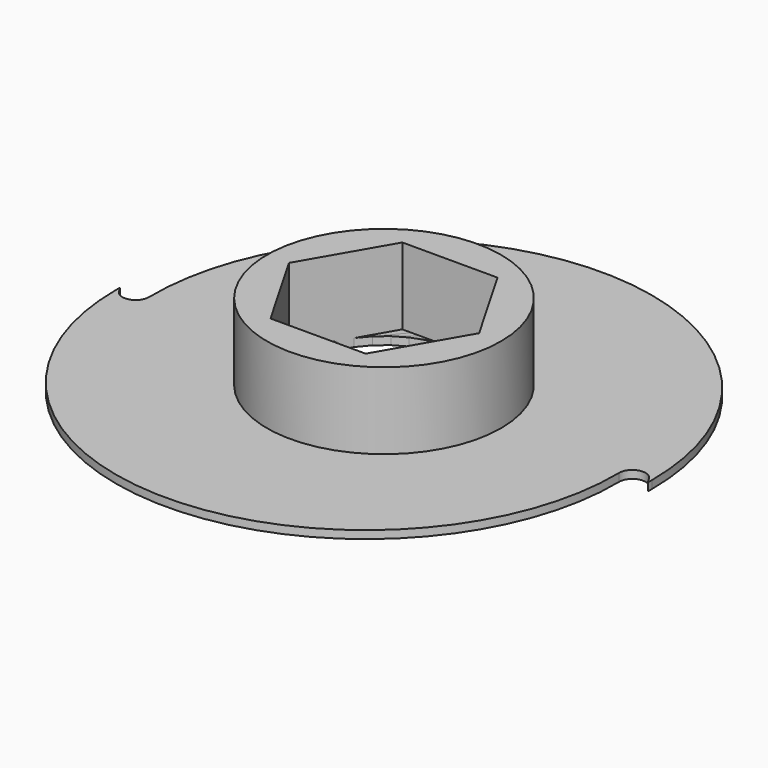
from build123d import *

# Parameters (mm, degrees)
PAD001_DEPTH = 1.5
SKETCH018_R  = 22.18
PAD007_DEPTH = 3
CHAMFER_SIZE = 2.9999
SKETCH019_R  = 27.5
PAD008_DEPTH = 1.5
PAD009_DEPTH = 1.5
PAD010_DEPTH = 1.5
PAD011_DEPTH = 1.5
PAD012_DEPTH = 1.5
PAD013_DEPTH = 1.5
SKETCH035_R  = 22.18
PAD014_DEPTH = 16


with BuildPart() as obj1:
    # Sketch001 → Pad001 (new body)
    with BuildSketch(Plane.XY):
        with BuildLine():
            Line((49.989999, 0), (49.989999, 1))
            ThreePointArc((49.989999, 1), (2.262175, 48.370273), (-44.747868, 0.287597))
            ThreePointArc((-49.412649, -1), (-46.582398, -2.159881), (-44.747868, 0.287597))
            Line((-49.989999, 0), (-49.412649, -1))
            Line((-49.989999, 0), (-49.989999, -1))
            ThreePointArc((-49.989999, -1), (-2.262175, -48.370273), (44.747868, -0.287597))
            ThreePointArc((49.412649, 1), (46.582398, 2.159881), (44.747868, -0.287597))
            Line((49.989999, 0), (49.412649, 1))
        make_face()
        Polygon((-9.012438, -15.61), (9.012438, -15.61), (18.024875, 0), (9.012438, 15.61), (-9.012438, 15.61), (-18.024875, 0), align=None, mode=Mode.SUBTRACT)
    extrude(amount=PAD001_DEPTH)


with BuildPart() as obj2:
    # Sketch018 → Pad007 (new body)
    with BuildSketch(Plane.XY):
        Circle(SKETCH018_R)
        Polygon((9.012438, 15.61), (-9.012438, 15.61), (-18.024875, 0), (-9.012438, -15.61), (9.012438, -15.61), (18.024875, 0), align=None, mode=Mode.SUBTRACT)
    extrude(amount=PAD007_DEPTH)

    # Chamfer
    chamfer_edges = [obj2.edges().sort_by_distance(p)[0] for p in [
        (0, -15.61, 0),
        (13.518657, -7.805, 0),
        (13.518657, 7.805, 0),
        (0, 15.61, 0),
        (-13.518657, 7.805, 0),
        (-13.518657, -7.805, 0),
    ]]
    chamfer(chamfer_edges, length=CHAMFER_SIZE)


with BuildPart() as obj3:
    # Sketch019 → Pad008 (new body)
    with BuildSketch(Plane.XY):
        Circle(SKETCH019_R)
        Polygon((9.012438, 15.61), (-9.012438, 15.61), (-18.024875, 0), (-9.012438, -15.61), (9.012438, -15.61), (18.024875, 0), align=None, mode=Mode.SUBTRACT)
    extrude(amount=PAD008_DEPTH)


with BuildPart() as obj4:
    # Sketch021 → Pad009 (new body)
    with BuildSketch(Plane.XY):
        with BuildLine():
            Line((49.989999, 0), (49.989999, 1))
            ThreePointArc((49.989999, 1), (2.262175, 48.370273), (-44.747868, 0.287597))
            ThreePointArc((-49.412649, -1), (-46.582398, -2.159881), (-44.747868, 0.287597))
            Line((-49.989999, 0), (-49.412649, -1))
            Line((-49.989999, 0), (-49.989999, -1))
            ThreePointArc((-49.989999, -1), (-2.262175, -48.370273), (44.747868, -0.287597))
            ThreePointArc((49.412649, 1), (46.582398, 2.159881), (44.747868, -0.287597))
            Line((49.989999, 0), (49.412649, 1))
        make_face()
        Polygon((-6.16487, -16.937842), (11.586167, -13.807856), (17.751037, 3.129987), (6.16487, 16.937842), (-11.586167, 13.807856), (-17.751037, -3.129987), align=None, mode=Mode.SUBTRACT)
    extrude(amount=PAD009_DEPTH)


with BuildPart() as obj5:
    # Sketch024 → Pad010 (new body)
    with BuildSketch(Plane.XY):
        with BuildLine():
            Line((49.989999, 0), (49.989999, 1))
            ThreePointArc((49.989999, 1), (2.262175, 48.370273), (-44.747868, 0.287597))
            ThreePointArc((-49.412649, -1), (-46.582398, -2.159881), (-44.747868, 0.287597))
            Line((-49.989999, 0), (-49.412649, -1))
            Line((-49.989999, 0), (-49.989999, -1))
            ThreePointArc((-49.989999, -1), (-2.262175, -48.370273), (44.747868, -0.287597))
            ThreePointArc((49.412649, 1), (46.582398, 2.159881), (44.747868, -0.287597))
            Line((49.989999, 0), (49.412649, 1))
        make_face()
        Polygon((-3.129987, -17.751037), (13.807856, -11.586167), (16.937842, 6.16487), (3.129987, 17.751037), (-13.807856, 11.586167), (-16.937842, -6.16487), align=None, mode=Mode.SUBTRACT)
    extrude(amount=PAD010_DEPTH)


with BuildPart() as obj6:
    # Sketch027 → Pad011 (new body)
    with BuildSketch(Plane.XY):
        with BuildLine():
            Line((49.989999, 0), (49.989999, 1))
            ThreePointArc((49.989999, 1), (2.262175, 48.370273), (-44.747868, 0.287597))
            ThreePointArc((-49.412649, -1), (-46.582398, -2.159881), (-44.747868, 0.287597))
            Line((-49.989999, 0), (-49.412649, -1))
            Line((-49.989999, 0), (-49.989999, -1))
            ThreePointArc((-49.989999, -1), (-2.262175, -48.370273), (44.747868, -0.287597))
            ThreePointArc((49.412649, 1), (46.582398, 2.159881), (44.747868, -0.287597))
            Line((49.989999, 0), (49.412649, 1))
        make_face()
        Polygon((0, -18.024875), (15.61, -9.012438), (15.61, 9.012438), (0, 18.024875), (-15.61, 9.012438), (-15.61, -9.012438), align=None, mode=Mode.SUBTRACT)
    extrude(amount=PAD011_DEPTH)


with BuildPart() as obj7:
    # Sketch030 → Pad012 (new body)
    with BuildSketch(Plane.XY):
        with BuildLine():
            Line((49.989999, 0), (49.989999, 1))
            ThreePointArc((49.989999, 1), (2.262175, 48.370273), (-44.747868, 0.287597))
            ThreePointArc((-49.412649, -1), (-46.582398, -2.159881), (-44.747868, 0.287597))
            Line((-49.989999, 0), (-49.412649, -1))
            Line((-49.989999, 0), (-49.989999, -1))
            ThreePointArc((-49.989999, -1), (-2.262175, -48.370273), (44.747868, -0.287597))
            ThreePointArc((49.412649, 1), (46.582398, 2.159881), (44.747868, -0.287597))
            Line((49.989999, 0), (49.412649, 1))
        make_face()
        Polygon((3.129987, -17.751037), (16.937842, -6.16487), (13.807856, 11.586167), (-3.129987, 17.751037), (-16.937842, 6.16487), (-13.807856, -11.586167), align=None, mode=Mode.SUBTRACT)
    extrude(amount=PAD012_DEPTH)


with BuildPart() as obj8:
    # Sketch033 → Pad013 (new body)
    with BuildSketch(Plane.XY):
        with BuildLine():
            Line((49.989999, 0), (49.989999, 1))
            ThreePointArc((49.989999, 1), (2.262175, 48.370273), (-44.747868, 0.287597))
            ThreePointArc((-49.412649, -1), (-46.582398, -2.159881), (-44.747868, 0.287597))
            Line((-49.989999, 0), (-49.412649, -1))
            Line((-49.989999, 0), (-49.989999, -1))
            ThreePointArc((-49.989999, -1), (-2.262175, -48.370273), (44.747868, -0.287597))
            ThreePointArc((49.412649, 1), (46.582398, 2.159881), (44.747868, -0.287597))
            Line((49.989999, 0), (49.412649, 1))
        make_face()
        Polygon((6.16487, -16.937842), (17.751037, -3.129987), (11.586167, 13.807856), (-6.16487, 16.937842), (-17.751037, 3.129987), (-11.586167, -13.807856), align=None, mode=Mode.SUBTRACT)
    extrude(amount=PAD013_DEPTH)


with BuildPart() as obj9:
    # Sketch035 → Pad014 (new body)
    with BuildSketch(Plane.XY):
        Circle(SKETCH035_R)
        Polygon((9.012438, 15.61), (-9.012438, 15.61), (-18.024875, 0), (-9.012438, -15.61), (9.012438, -15.61), (18.024875, 0), align=None, mode=Mode.SUBTRACT)
    extrude(amount=PAD014_DEPTH)


solid = Compound([obj1.part, obj2.part, obj3.part, obj4.part, obj5.part, obj6.part, obj7.part, obj8.part, obj9.part])
